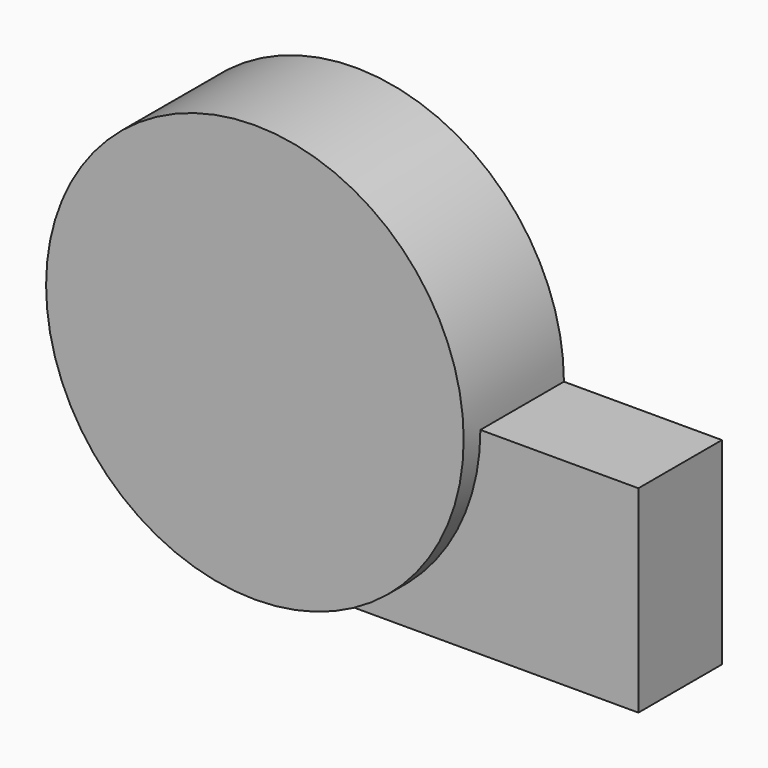
from build123d import *

# Parameters (mm, degrees)
F0_R     = 50
F1_DEPTH = 30
F2_W     = 87.83558
F2_H     = 47.305271
F3_DEPTH = 25


with BuildPart() as f1:
    # F0 (on Front) → F1 (new body)
    with BuildSketch(Plane.XZ):
        Circle(F0_R)
    extrude(amount=F1_DEPTH)

    # F2 (on Front) → F3 (join)
    with BuildSketch(Plane.XZ):
        with Locations((43.91779, -23.652635)):
            Rectangle(F2_W, F2_H)
    extrude(amount=F3_DEPTH)


solid = f1.part
